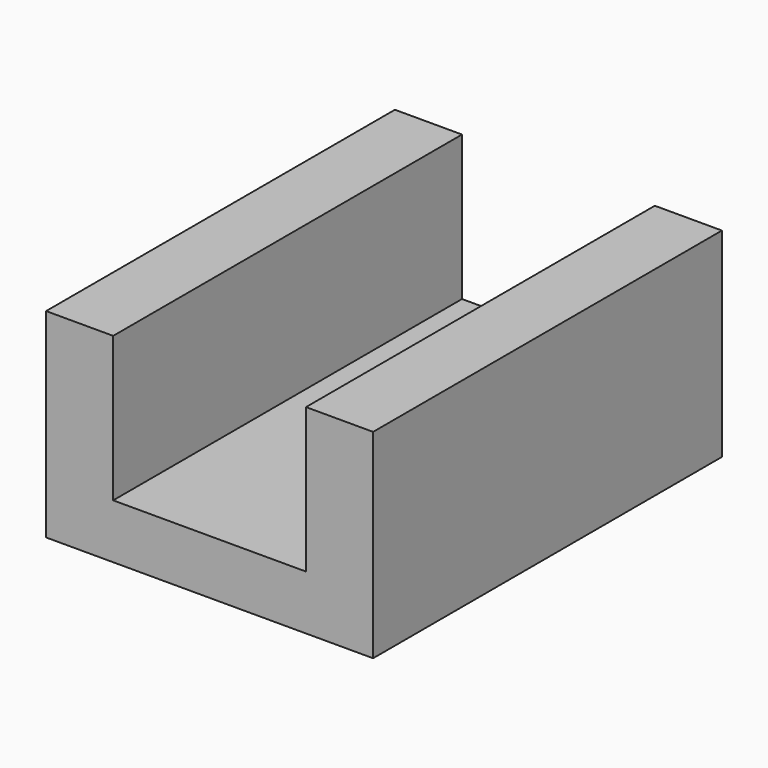
from build123d import *

# Parameters (mm, degrees)
F1_DEPTH = 6.35
F2_W     = 15.6363076478
F2_H     = 33.7427960873
F3_DEPTH = 101.6


with BuildPart() as f1:
    # F0 (on Top) → F1 (new body, symmetric)
    with BuildSketch(Plane.XY):
        Polygon((38.1, 50.8), (0, 50.8), (-38.1, 50.8), (-38.1, 0), (-38.1, -50.8), (0, -50.8), (38.1, -50.8), (38.1, 0), align=None)
    extrude(amount=F1_DEPTH, both=True)

    # F2 (on face) → F3 (join)
    with BuildSketch(Plane.XZ.offset(50.8)):
        with Locations((-30.2818461761, 23.2213980436)):
            Rectangle(F2_W, F2_H)
    extrude(amount=-F3_DEPTH)

    # F4: F1 across plane


with BuildPart() as f1_1:
    add(f1.part)
    add(f1.part.mirror(Plane.YZ))


solid = f1_1.part
